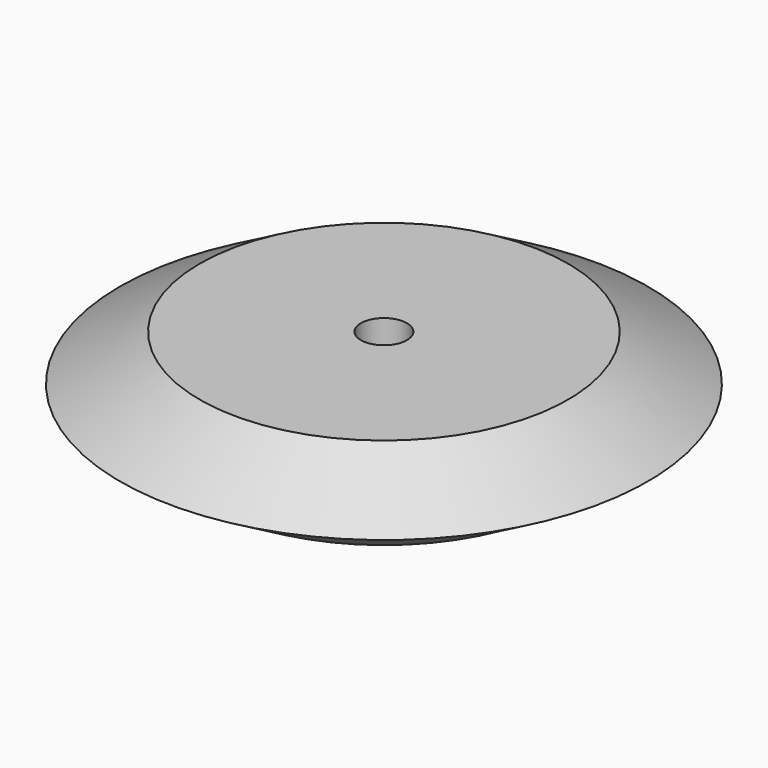
from build123d import *

# Parameters (mm, degrees)
F0_W     = 25.4
F0_H     = 12.7
F2_R     = 3.175
F3_DEPTH = 12.7


with BuildPart() as f1:
    # F0 (on Front) → F1 (revolve)
    with BuildSketch(Plane.XZ):
        with Locations((-12.7, 6.35)):
            Rectangle(F0_W, F0_H)
        Polygon((-25.4, 0), (-25.4, 12.7), (-36.398523, 6.35), align=None)
    revolve(axis=Axis((0, 0, 6.35), (0, 0, -1)))

    # F2 (on face) → F3 (cut)
    with BuildSketch(Plane(origin=(0, 0, 0), x_dir=(1, 0, 0), z_dir=(0, 0, -1))):
        Circle(F2_R)
    extrude(amount=-F3_DEPTH, mode=Mode.SUBTRACT)


solid = f1.part
